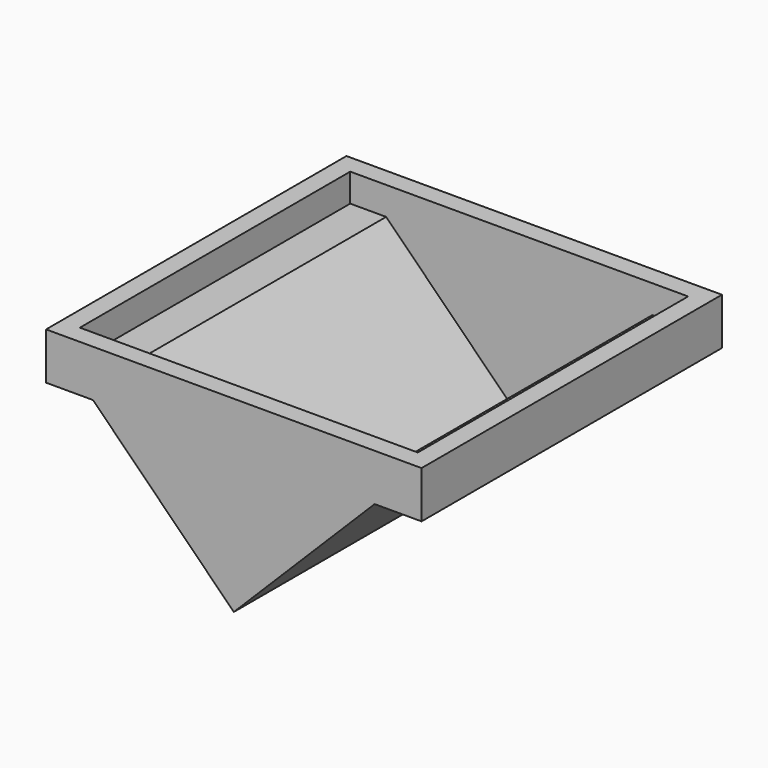
from build123d import *

# Parameters (mm, degrees)
F0_W     = 50.8
F0_H     = 25.4
F1_DEPTH = 50.8
F3_DEPTH = 50.8
F5_DEPTH = 50.8
F6_T     = -2.54


with BuildPart() as f1:
    # F0 (on Front) → F1 (new body)
    with BuildSketch(Plane.XZ):
        with Locations((25.4, 12.7)):
            Rectangle(F0_W, F0_H)
    extrude(amount=-F1_DEPTH)

    # F2 (on face) → F3 (cut)
    with BuildSketch(Plane.XZ):
        Polygon((0, 19.05), (0, 0), (25.4, 0), (6.35, 19.05), align=None)
    extrude(amount=-F3_DEPTH, mode=Mode.SUBTRACT)

    # F4 (on face) → F5 (cut)
    with BuildSketch(Plane.XZ):
        Polygon((25.4, 0), (50.8, 0), (50.8, 19.05), (44.45, 19.05), align=None)
    extrude(amount=-F5_DEPTH, mode=Mode.SUBTRACT)

    # F6
    f6_openings = [f1.faces().sort_by_distance(p)[0] for p in [
        (25.4, 25.4, 25.4),
    ]]
    offset(amount=F6_T, openings=f6_openings, kind=Kind.INTERSECTION)


solid = f1.part
